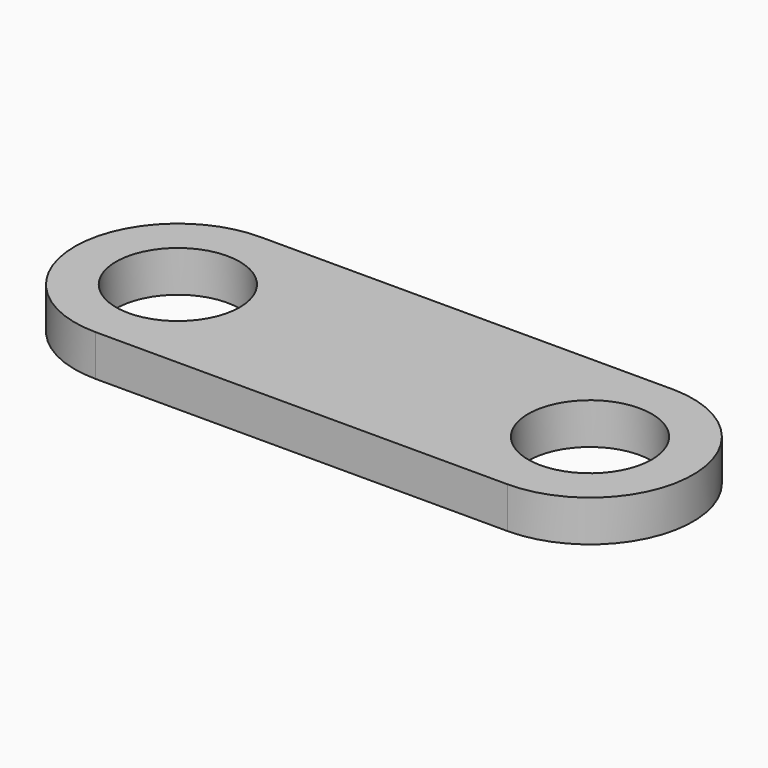
from build123d import *

# Parameters (mm, degrees)
F0_R     = 1.5
F1_DEPTH = 1


with BuildPart() as f1:
    # F0 (on Top) → F1 (new body)
    with BuildSketch(Plane.XY):
        with BuildLine():
            Line((4.950397, 2.499508), (-4.950397, 2.499508))
            ThreePointArc((-4.950397, 2.499508), (-7.499904, 0.021927), (-4.994248, -2.499993))
            Line((-4.994248, -2.499993), (4.999998, -2.5))
            ThreePointArc((4.999998, -2.5), (7.499877, -0.024803), (5.049603, 2.499508))
            Line((5.049603, 2.499508), (4.950397, 2.499508))
        make_face()
        with Locations((-5, 0)):
            Circle(F0_R, mode=Mode.SUBTRACT)
        with Locations((5, 0)):
            Circle(F0_R, mode=Mode.SUBTRACT)
    extrude(amount=-F1_DEPTH)


solid = f1.part
